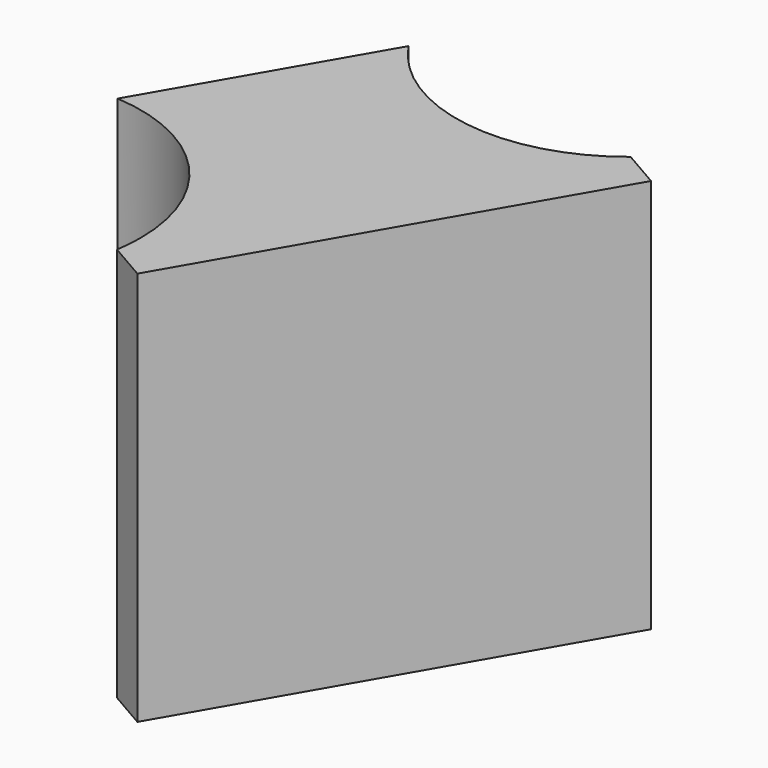
from build123d import *

# Parameters (mm, degrees)
F1_DEPTH = 12


with BuildPart() as f1:
    # F0 (on Top) → F1 (new body)
    with BuildSketch(Plane.XY):
        with BuildLine():
            ThreePointArc((-19.687827, 18.926671), (-23.780217, 17.808299), (-27.363122, 20.080126))
            Line((-27.363122, 20.080126), (-31.07146, 13.657096))
            ThreePointArc((-31.07146, 13.657096), (-27.585511, 12.006069), (-26.168584, 8.418584))
            ThreePointArc((-26.168584, 8.418584), (-26.185187, 8.001384), (-26.234891, 7.586823))
            Line((-26.234891, 7.586823), (-25.080382, 6.920266))
            Line((-25.080382, 6.920266), (-18.533317, 18.260114))
            Line((-18.533317, 18.260114), (-19.687827, 18.926671))
        make_face()
    extrude(amount=F1_DEPTH)


solid = f1.part
